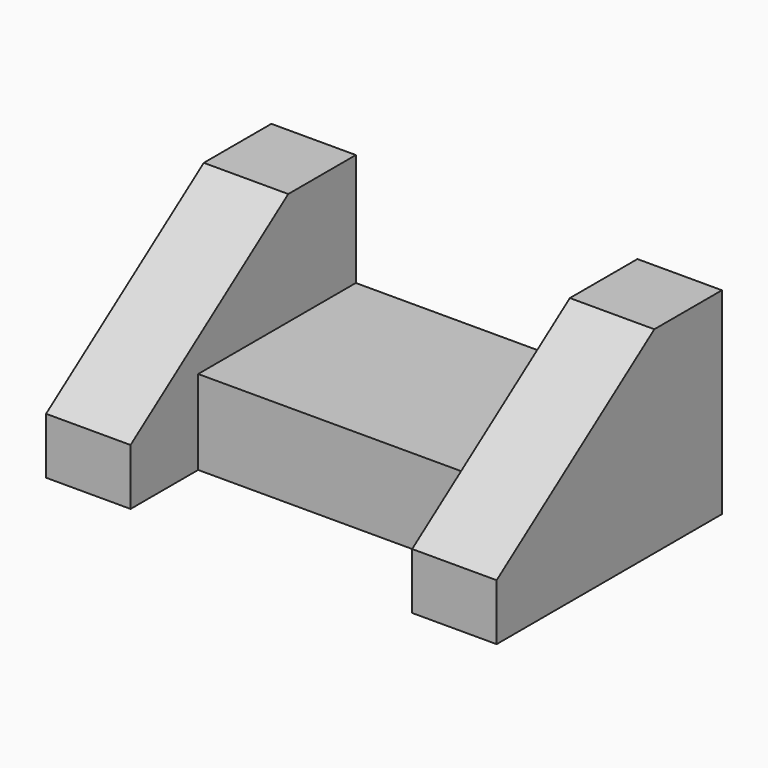
from build123d import *

# Parameters (mm, degrees)
F0_W     = 63.5
F0_H     = 44.45
F1_DEPTH = 19.05
F2_DEPTH = 44.45
F4_DEPTH = 101.6


with BuildPart() as f1:
    # F0 (on Top) → F1 (new body)
    with BuildSketch(Plane.XY):
        with Locations((-50.8, 41.275)):
            Rectangle(F0_W, F0_H)
    extrude(amount=F1_DEPTH)

    # F0 (on Top) → F2 (join)
    with BuildSketch(Plane.XY):
        Polygon((-19.05, 0), (0, 0), (0, 63.5), (-19.05, 63.5), (-19.05, 19.05), align=None)
        Polygon((-82.55, 19.05), (-82.55, 63.5), (-101.6, 63.5), (-101.6, 0), (-82.55, 0), align=None)
    extrude(amount=F2_DEPTH)

    # F3 (on face) → F4 (cut)
    with BuildSketch(Plane.YZ):
        Polygon((0, 12.7), (44.45, 44.45), (0, 44.45), align=None)
    extrude(amount=-F4_DEPTH, mode=Mode.SUBTRACT)


solid = f1.part
